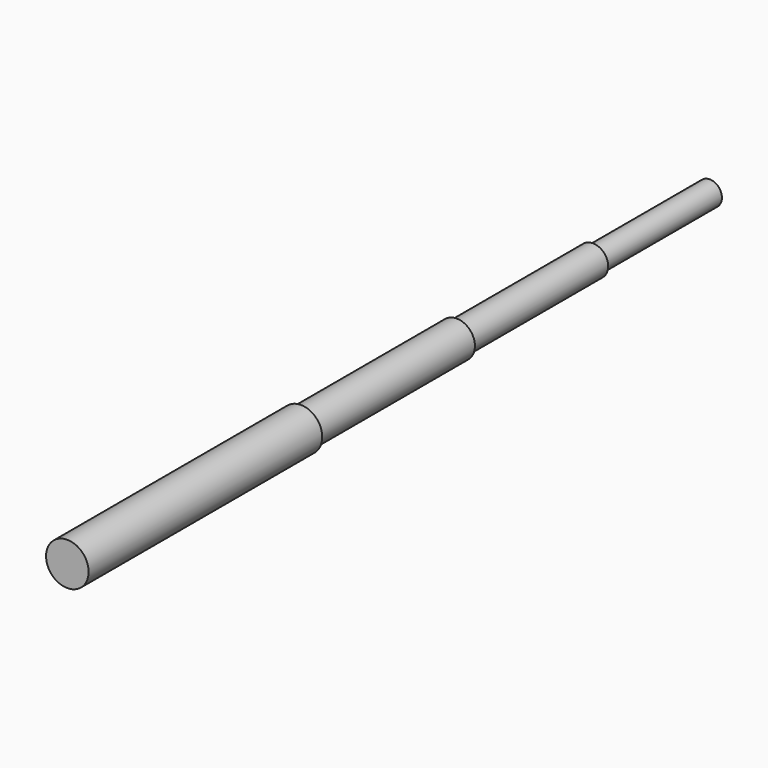
from build123d import *

# Parameters (mm, degrees)
F0_R     = 12.7
F1_DEPTH = 152.4
F2_R     = 15.875
F2_R_2   = 12.7
F3_DEPTH = 177.8
F4_R     = 19.05
F4_R_2   = 15.875
F5_DEPTH = 203.2
F6_R     = 22.225
F6_R_2   = 19.05
F7_DEPTH = 304.8
F8_R     = 15.875
F9_DEPTH = 25.4


with BuildPart() as f1:
    # F0 (on Front) → F1 (new body)
    with BuildSketch(Plane.XZ):
        Circle(F0_R)
    extrude(amount=F1_DEPTH)

    # F2 (on face) → F3 (join)
    with BuildSketch(Plane.XZ.offset(152.4)):
        Circle(F2_R)
        Circle(F2_R_2, mode=Mode.SUBTRACT)
        Circle(F2_R_2)
    extrude(amount=F3_DEPTH)

    # F4 (on face) → F5 (join)
    with BuildSketch(Plane.XZ.offset(330.2)):
        Circle(F4_R)
        Circle(F4_R_2, mode=Mode.SUBTRACT)
        Circle(F4_R_2)
    extrude(amount=F5_DEPTH)

    # F6 (on face) → F7 (join)
    with BuildSketch(Plane.XZ.offset(533.4)):
        Circle(F6_R)
        Circle(F6_R_2, mode=Mode.SUBTRACT)
        Circle(F6_R_2)
    extrude(amount=F7_DEPTH)

    # F8 (on Right) → F9 (cut)
    with BuildSketch(Plane.YZ):
        with Locations((-796.925, 0)):
            Circle(F8_R)
    extrude(amount=-F9_DEPTH, mode=Mode.SUBTRACT)


solid = f1.part
